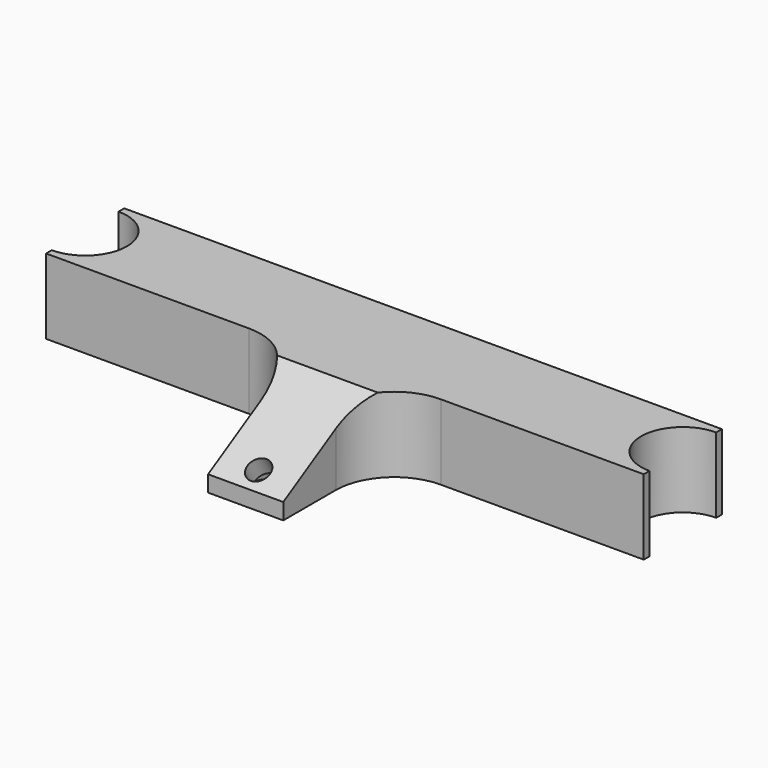
from build123d import *

# Parameters (mm, degrees)
CYLINDER_R               = 6
CYLINDER_DEPTH           = 15
CYLINDER_PLACEMENT_ANGLE = 29.9999898558
BOX_W                    = 30
BOX_H                    = 50
BOX_DEPTH                = 30
BOX_ROLL_ANGLE           = 29.9998791688
PAD_DEPTH                = 20
SKETCH001_R              = 3
POCKET_DEPTH             = 33.2329378555


with BuildPart() as cylinder:
    # Cylinder → Cylinder (new body)
    with BuildSketch(Plane.XY):
        Circle(CYLINDER_R)
    extrude(amount=CYLINDER_DEPTH)


with BuildPart() as cylinder_1:
    # Cylinder placement: moved
    add(cylinder.part.moved(Location((0, -32, -11))).rotate(Axis((0, -32, -11), (1, 0, 0)), CYLINDER_PLACEMENT_ANGLE))


with BuildPart() as box:
    # Box → Box (new body)
    with BuildSketch(Plane.XY):
        with Locations((15, 25)):
            Rectangle(BOX_W, BOX_H)
    extrude(amount=BOX_DEPTH)


with BuildPart() as box_1:
    # Box roll: moved
    add(box.part.rotate(Axis((0, 0, 0), (1, 0, 0)), BOX_ROLL_ANGLE))


with BuildPart() as box_2:
    # Box placement: moved
    add(box_1.part.moved(Location((-15, -50, 2))))


with BuildPart() as cut001:
    # Sketch → Pad (new body)
    with BuildSketch(Plane.XY):
        with BuildLine():
            Line((-79.5, 13), (79.5, 13))
            Line((79.5, 13), (79.5, 11.1))
            ThreePointArc((79.5, 11.1), (68.4, 0), (79.5, -11.1))
            Line((79.5, -13), (79.5, -11.1))
            Line((25.5184, -13), (79.5, -13))
            ThreePointArc((25.5184, -13), (14.5452341268, -17.5452341268), (10, -28.5184))
            Line((10, -46), (10, -28.5184))
            Line((-10, -46), (10, -46))
            Line((-10, -28.5184), (-10, -46))
            ThreePointArc((-10, -28.5184), (-14.5452341268, -17.5452341268), (-25.5184, -13))
            Line((-79.5, -13), (-25.5184, -13))
            Line((-79.5, -13), (-79.5, -11.1))
            ThreePointArc((-79.5, -11.1), (-68.4, 0), (-79.5, 11.1))
            Line((-79.5, 13), (-79.5, 11.1))
        make_face()
    extrude(amount=PAD_DEPTH)

    # Cut: cut Box
    add(box_2.part, mode=Mode.SUBTRACT)

    # Sketch001 → Pocket (cut, through all)
    with BuildSketch(Plane(origin=(0, -13.3659319768, 23.1505860246), x_dir=(1, 0, 0), z_dir=(0, -0.4999981736, 0.8660264582))):
        with Locations((0, -32.6825300346)):
            Circle(SKETCH001_R)
    extrude(amount=-POCKET_DEPTH, mode=Mode.SUBTRACT)

    # Cut001: cut Cylinder
    add(cylinder_1.part, mode=Mode.SUBTRACT)


solid = cut001.part
